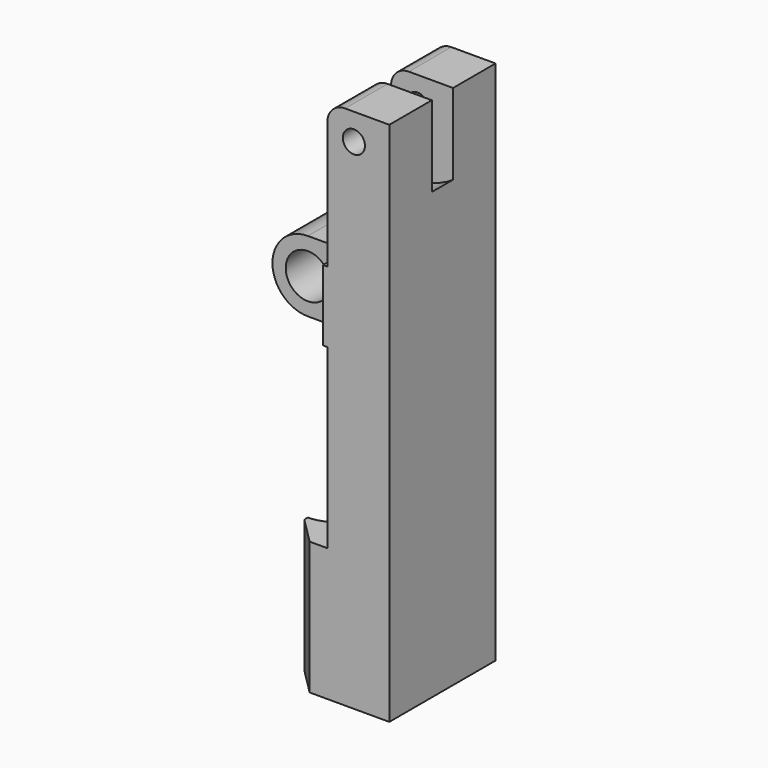
from build123d import *

# Parameters (mm, degrees)
SKETCH010_R       = 2.5
SKETCH010_R_2     = 1.25
PAD008_DEPTH      = 15
BOX001_W          = 11
BOX001_H          = 10
BOX001_DEPTH      = 10
BOX002_W          = 10
BOX002_H          = 10
BOX002_DEPTH      = 10
CHAMFER002_SIZE   = 3
CYLINDER004_R     = 7
CYLINDER004_DEPTH = 3
CYLINDER005_R     = 4
CYLINDER005_DEPTH = 31


with BuildPart() as part:
    # Sketch010 → Pad008 (new body)
    with BuildSketch(Plane.XZ):
        with BuildLine():
            Line((0, 35), (5, 35))
            Line((5, 35), (5, 15))
            Line((5, 15), (0, 15))
            Line((0, 15), (0, 0))
            Line((0, 0), (12, 0))
            Line((12, 0), (12, 59.38))
            Line((12, 59.38), (7, 59.38))
            ThreePointArc((7, 59.38), (5.585786, 58.794214), (5, 57.38))
            Line((5, 57.38), (5, 43))
            Line((5, 43), (0, 43))
            ThreePointArc((0, 43), (-4, 39), (0, 35))
        make_face()
        with Locations((0, 39)):
            Circle(SKETCH010_R, mode=Mode.SUBTRACT)
        with Locations((8, 56.38)):
            Circle(SKETCH010_R_2, mode=Mode.SUBTRACT)
    extrude(amount=PAD008_DEPTH)

    # Box001 → Box001 (cut)
    with BuildSketch(Plane(origin=(-6.5, -2.5, 34), x_dir=(1, 0, 0), z_dir=(0, 0, 1))):
        with Locations((5.5, 5)):
            Rectangle(BOX001_W, BOX001_H)
    extrude(amount=BOX001_DEPTH, mode=Mode.SUBTRACT)

    # Box002 → Box002 (cut)
    with BuildSketch(Plane(origin=(-5.5, -21.5, 34), x_dir=(1, 0, 0), z_dir=(0, 0, 1))):
        with Locations((5, 5)):
            Rectangle(BOX002_W, BOX002_H)
    extrude(amount=BOX002_DEPTH, mode=Mode.SUBTRACT)

    # Chamfer002
    chamfer002_edges = [part.edges().sort_by_distance(p)[0] for p in [
        (0, -15, 7.5),
    ]]
    chamfer(chamfer002_edges, length=CHAMFER002_SIZE)

    # Cylinder004 → Cylinder004 (cut)
    with BuildSketch(Plane(origin=(8, -6, 56), x_dir=(1, 0, 0), z_dir=(0, -1, 0))):
        Circle(CYLINDER004_R)
    extrude(amount=CYLINDER004_DEPTH, mode=Mode.SUBTRACT)

    # Cylinder005 → Cylinder005 (cut)
    with BuildSketch(Plane(origin=(0, -7.5, 0), x_dir=(1, 0, 0), z_dir=(0, 0, 1))):
        Circle(CYLINDER005_R)
    extrude(amount=CYLINDER005_DEPTH, mode=Mode.SUBTRACT)


solid = part.part
